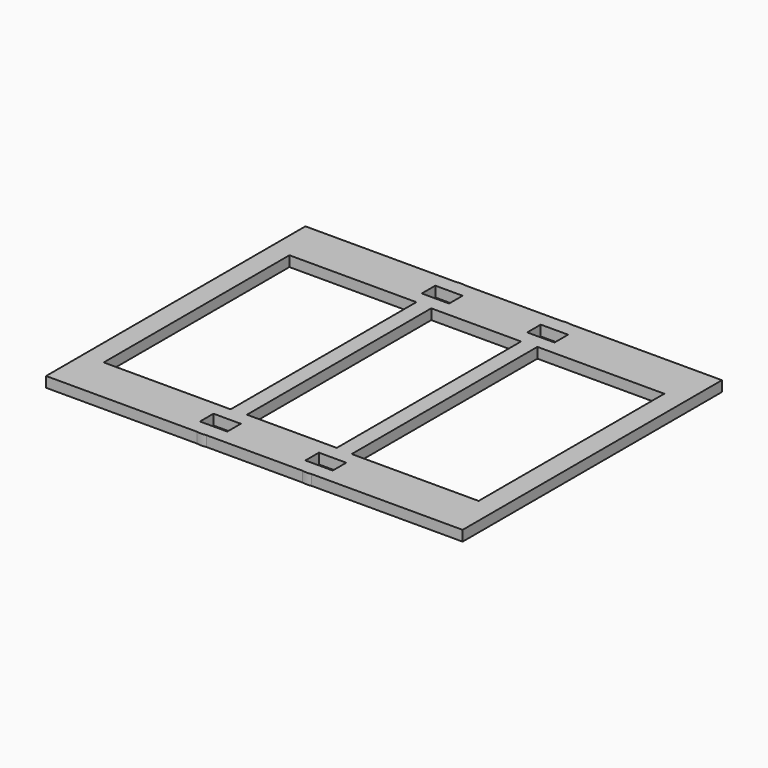
from build123d import *

# Parameters (mm, degrees)
F0_W     = 10.5
F0_H     = 6.5
F0_W_2   = 17.25
F0_H_2   = 0.3298058208
F0_W_3   = 8
F0_H_3   = 17.6701941792
F0_H_4   = 44.5798058208
F1_DEPTH = 2


with BuildPart() as f1:
    # F0 (on Top) → F1 (new body, symmetric)
    with BuildSketch(Plane.XY):
        with BuildLine():
            Line((0, 62.25), (-18.4689140656, 62.25))
            ThreePointArc((-18.4689140656, 62.25), (-13.1608209467, 59.0737279689), (-11.0754554824, 53.25))
            ThreePointArc((-11.0754554824, 53.25), (-12.7768513778, 47.9279405512), (-17.25, 44.5798058208))
            Line((-17.25, 44.5798058208), (0, 44.5798058208))
            Line((0, 44.5798058208), (0, 62.25))
        make_face()
        with BuildLine():
            Line((-22.0310859344, 62.25), (-18.4689140656, 62.25))
            ThreePointArc((-18.4689140656, 62.25), (-20.25, 62.4245445176), (-22.0310859344, 62.25))
        make_face()
        with BuildLine():
            ThreePointArc((-11.0754554824, 53.25), (-13.1608209467, 59.0737279689), (-18.4689140656, 62.25))
            Line((-18.4689140656, 62.25), (-22.0310859344, 62.25))
            ThreePointArc((-22.0310859344, 62.25), (-29.4027939047, 53.8813721919), (-23.25, 44.5798058208))
            Line((-23.25, 44.5798058208), (-17.25, 44.5798058208))
            ThreePointArc((-17.25, 44.5798058208), (-12.7768513778, 47.9279405512), (-11.0754554824, 53.25))
        make_face()
        with Locations((-20.25, 53.25)):
            Rectangle(F0_W, F0_H, mode=Mode.SUBTRACT)
        with BuildLine():
            ThreePointArc((-23.25, 44.5798058208), (-29.4027939047, 53.8813721919), (-22.0310859344, 62.25))
            Line((-22.0310859344, 62.25), (-72, 62.25))
            Line((-72, 62.25), (-72, 44.5798058208))
            Line((-72, 44.5798058208), (-23.25, 44.5798058208))
        make_face()
        with Locations((-8.625, 44.4149029104)):
            Rectangle(F0_W_2, F0_H_2)
        with BuildLine():
            Line((-17.25, 44.25), (-17.25, 44.5798058208))
            ThreePointArc((-17.25, 44.5798058208), (-17.8537761691, 44.3939072691), (-18.4689140656, 44.25))
            Line((-18.4689140656, 44.25), (-17.25, 44.25))
        make_face()
        with BuildLine():
            ThreePointArc((-18.4689140656, 44.25), (-17.8537761691, 44.3939072691), (-17.25, 44.5798058208))
            Line((-17.25, 44.5798058208), (-23.25, 44.5798058208))
            ThreePointArc((-23.25, 44.5798058208), (-20.8813721919, 44.0972060953), (-18.4689140656, 44.25))
        make_face()
        with BuildLine():
            ThreePointArc((-18.4689140656, 44.25), (-20.8813721919, 44.0972060953), (-23.25, 44.5798058208))
            Line((-23.25, 44.5798058208), (-23.25, 0))
            Line((-23.25, 0), (-17.25, 0))
            Line((-17.25, 0), (-17.25, 44.25))
            Line((-17.25, 44.25), (-18.4689140656, 44.25))
        make_face()
        with Locations((-76, 53.4149029104)):
            Rectangle(F0_W_3, F0_H_3)
        with Locations((-76, 22.2899029104)):
            Rectangle(F0_W_3, F0_H_4)
    extrude(amount=F1_DEPTH, both=True)

    # F2: F1 across face


with BuildPart() as f1_1:
    add(f1.part)
    add(f1.part.mirror(Plane(origin=(0, 53.25, 0), x_dir=(0, 1, 0), z_dir=(1, 0, 0))))

    # F3: F1 across face


with BuildPart() as f1_2:
    add(f1_1.part)
    add(f1_1.part.mirror(Plane(origin=(-20.25, 0, 0), x_dir=(1, 0, 0), z_dir=(0, -1, 0))))


solid = f1_2.part
